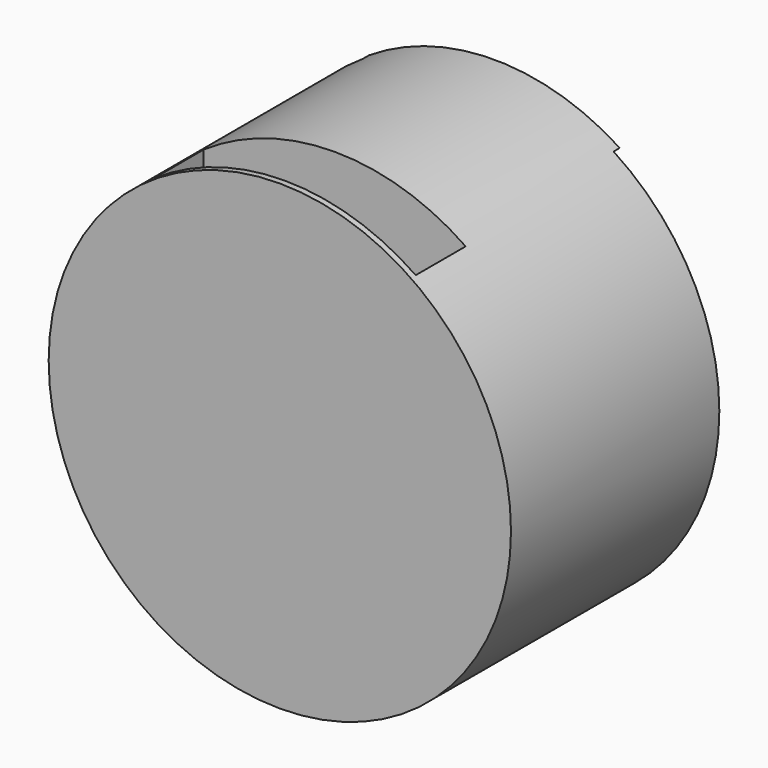
from build123d import *

# Parameters (mm, degrees)
SKETCH007_R         = 15
EXTRUDE003004_DEPTH = 0.4
BOX019_W            = 17
BOX019_H            = 0.4
BOX019_DEPTH        = 20
BOX018_W            = 17
BOX018_H            = 4.35
BOX018_DEPTH        = 28
BOX013_W            = 1
BOX013_H            = 5.2
BOX013_DEPTH        = 3
CYLINDER009_R       = 4.15
CYLINDER009_DEPTH   = 10
CYLINDER007_R       = 4.15
CYLINDER007_DEPTH   = 10
BOX007_W            = 50
BOX007_H            = 25
BOX007_DEPTH        = 0.5
SKETCH006_R         = 15
EXTRUDE003003_DEPTH = 17.25


with BuildPart() as extrude003004:
    # Sketch007 → Extrude003004 (new body)
    with BuildSketch(Plane.XZ):
        with Locations((89, 10.4)):
            Circle(SKETCH007_R)
    extrude(amount=EXTRUDE003004_DEPTH)


with BuildPart() as extrude003004_1:
    # Extrude003004 placement: moved
    add(extrude003004.part.moved(Location((0, -17, 0))))


with BuildPart() as cube016:
    # Box019 → Box019 (new body)
    with BuildSketch(Plane(origin=(80.5, -17.3, 2), x_dir=(1, 0, 0), z_dir=(0, 0, 1))):
        with Locations((8.5, 0.2)):
            Rectangle(BOX019_W, BOX019_H)
    extrude(amount=BOX019_DEPTH)


with BuildPart() as cube015:
    # Box018 → Box018 (new body)
    with BuildSketch(Plane(origin=(80.5, -17.3, 10), x_dir=(1, 0, 0), z_dir=(0, 0, 1))):
        with Locations((8.5, 2.175)):
            Rectangle(BOX018_W, BOX018_H)
    extrude(amount=BOX018_DEPTH)


with BuildPart() as cube012:
    # Box013 → Box013 (new body)
    with BuildSketch(Plane(origin=(88.5, -18.1, 9), x_dir=(1, 0, 0), z_dir=(0, 0, 1))):
        with Locations((0.5, 2.6)):
            Rectangle(BOX013_W, BOX013_H)
    extrude(amount=BOX013_DEPTH)


with BuildPart() as obj1:
    # Cylinder009 → Cylinder009 (new body)
    with BuildSketch(Plane(origin=(93.2, -12.9, 10.4), x_dir=(1, 0, 0), z_dir=(0, -1, 0))):
        Circle(CYLINDER009_R)
    extrude(amount=CYLINDER009_DEPTH)


with BuildPart() as obj2:
    # Cylinder007 → Cylinder007 (new body)
    with BuildSketch(Plane(origin=(84.8, -12.9, 10.4), x_dir=(1, 0, 0), z_dir=(0, -1, 0))):
        Circle(CYLINDER007_R)
    extrude(amount=CYLINDER007_DEPTH)


with BuildPart() as cube007:
    # Box007 → Box007 (new body)
    with BuildSketch(Plane(origin=(66, 0, -2), x_dir=(1, 0, 0), z_dir=(0, -1, 0))):
        with Locations((25, 12.5)):
            Rectangle(BOX007_W, BOX007_H)
    extrude(amount=BOX007_DEPTH)


with BuildPart() as obj3:
    # Sketch006 → Extrude003003 (new body)
    with BuildSketch(Plane.XZ):
        with Locations((89, 10.4)):
            Circle(SKETCH006_R)
    extrude(amount=EXTRUDE003003_DEPTH)

    # Cut005014006: cut Cube007
    add(cube007.part, mode=Mode.SUBTRACT)

    # Cut005014007: cut obj2
    add(obj2.part, mode=Mode.SUBTRACT)

    # Cut005014010: cut obj1
    add(obj1.part, mode=Mode.SUBTRACT)

    # Cut005014011: cut Cube012
    add(cube012.part, mode=Mode.SUBTRACT)

    # Cut005014013: cut Cube015
    add(cube015.part, mode=Mode.SUBTRACT)

    # Fusion007: union Cube016
    add(cube016.part)

    # Fusion008: union Extrude003004
    add(extrude003004_1.part)


solid = obj3.part
